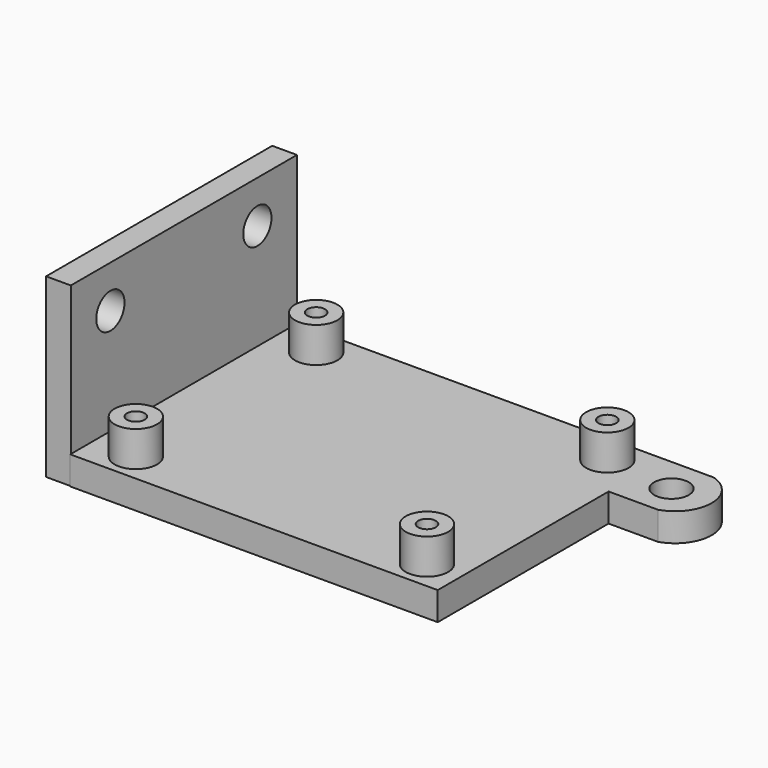
from build123d import *

# Parameters (mm, degrees)
F0_R     = 3
F0_R_2   = 2.45
F1_DEPTH = 4
F0_R_3   = 1.25
F2_DEPTH = 9
F0_W     = 3.5
F0_H     = 40
F3_DEPTH = 25
F4_R     = 2.5
F5_DEPTH = 25


with BuildPart() as f1:
    # F0 (on Top) → F1 (new body)
    with BuildSketch(Plane.XY):
        with BuildLine():
            Line((54.6, 20), (3.5, 20))
            Line((3.5, 20), (3.5, -20))
            Line((3.5, -20), (3.5, -20.100027))
            Line((3.5, -20.100027), (55.5, -20.100027))
            Line((55.5, -20.100027), (55.5, 10.120172))
            Line((55.5, 10.120172), (62.5, 10.120172))
            ThreePointArc((62.5, 10.120172), (66.136013, 15.060086), (62.5, 20))
            Line((62.5, 20), (54.6, 20))
        make_face()
        with Locations((9.5, -16.000027)):
            Circle(F0_R, mode=Mode.SUBTRACT)
        with Locations((50.7, -16.000027)):
            Circle(F0_R, mode=Mode.SUBTRACT)
        with Locations((9.5, 15.9)):
            Circle(F0_R, mode=Mode.SUBTRACT)
        with Locations((50.7, 15.9)):
            Circle(F0_R, mode=Mode.SUBTRACT)
        with Locations((60.5, 15)):
            Circle(F0_R_2, mode=Mode.SUBTRACT)
    extrude(amount=F1_DEPTH)

    # F0 (on Top) → F2 (join)
    with BuildSketch(Plane.XY):
        with Locations((9.5, 15.9)):
            Circle(F0_R)
        with Locations((9.5, 15.9)):
            Circle(F0_R_3, mode=Mode.SUBTRACT)
        with Locations((50.7, 15.9)):
            Circle(F0_R)
        with Locations((50.7, 15.9)):
            Circle(F0_R_3, mode=Mode.SUBTRACT)
        with Locations((50.7, -16.000027)):
            Circle(F0_R)
        with Locations((50.7, -16.000027)):
            Circle(F0_R_3, mode=Mode.SUBTRACT)
        with Locations((9.5, -16.000027)):
            Circle(F0_R)
        with Locations((9.5, -16.000027)):
            Circle(F0_R_3, mode=Mode.SUBTRACT)
    extrude(amount=F2_DEPTH)

    # F0 (on Top) → F3 (join)
    with BuildSketch(Plane.XY):
        with Locations((1.75, 0)):
            Rectangle(F0_W, F0_H)
    extrude(amount=F3_DEPTH)

    # F4 (on Right) → F5 (cut)
    with BuildSketch(Plane.YZ):
        with Locations((13, 19)):
            Circle(F4_R)
        with Locations((-13, 19)):
            Circle(F4_R)
    extrude(amount=F5_DEPTH, mode=Mode.SUBTRACT)


solid = f1.part
